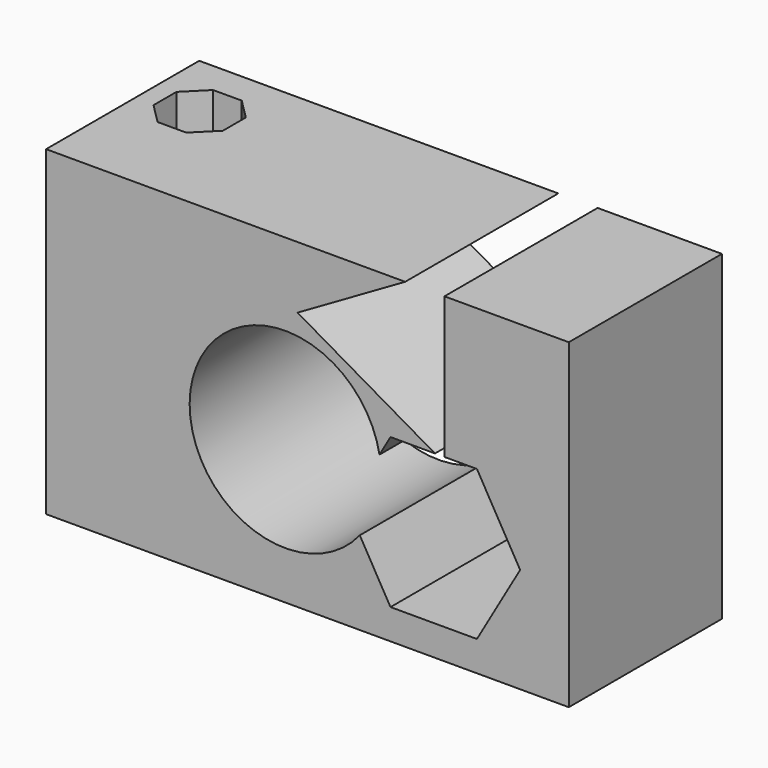
from build123d import *

# Parameters (mm, degrees)
F0_W     = 69.364339
F0_H     = 42.640485
F1_DEPTH = 25.4
F2_R     = 12.7
F3_DEPTH = 25.401
F4_DEPTH = 19.05
F6_DEPTH = 25.4
F8_DEPTH = 42.641485


with BuildPart() as f1:
    # F0 (on Front) → F1 (new body)
    with BuildSketch(Plane.XZ):
        with Locations((34.68217, 21.320242)):
            Rectangle(F0_W, F0_H)
    extrude(amount=F1_DEPTH)

    # F2 (on face) → F3 (cut, through all)
    with BuildSketch(Plane.XZ.offset(25.4)):
        with Locations((31.75, 19.05)):
            Circle(F2_R)
        Polygon((52.866902, 23.142773), (52.866902, 45.649943), (33.375122, 34.396358), align=None)
    extrude(amount=-F3_DEPTH, mode=Mode.SUBTRACT)

    # F2 (on face) → F4 (cut)
    with BuildSketch(Plane.XZ.offset(25.4)):
        with Locations((31.75, 19.05)):
            Circle(F2_R)
        Polygon((52.866902, 23.142773), (52.866902, 45.649943), (33.375122, 34.396358), align=None)
    extrude(amount=-F4_DEPTH, mode=Mode.SUBTRACT)

    # F5 (on face) → F6 (cut)
    with BuildSketch(Plane.XZ.offset(25.4)):
        Polygon((45.705261, 4.008082), (57.173451, 4.008082), (62.907545, 13.939825), (57.173451, 23.871568), (45.705261, 23.871568), (39.971167, 13.939825), align=None)
    extrude(amount=-F6_DEPTH, mode=Mode.SUBTRACT)

    # F7 (on face) → F8 (cut, through all)
    with BuildSketch(Plane.XY.offset(42.640485)):
        Polygon((5.218119, -13.429749), (9.02866, -13.429749), (11.72312, -10.735289), (11.72312, -6.924748), (9.02866, -4.230288), (5.218119, -4.230288), (2.523659, -6.924748), (2.523659, -10.735289), align=None)
    extrude(amount=-F8_DEPTH, mode=Mode.SUBTRACT)


solid = f1.part
